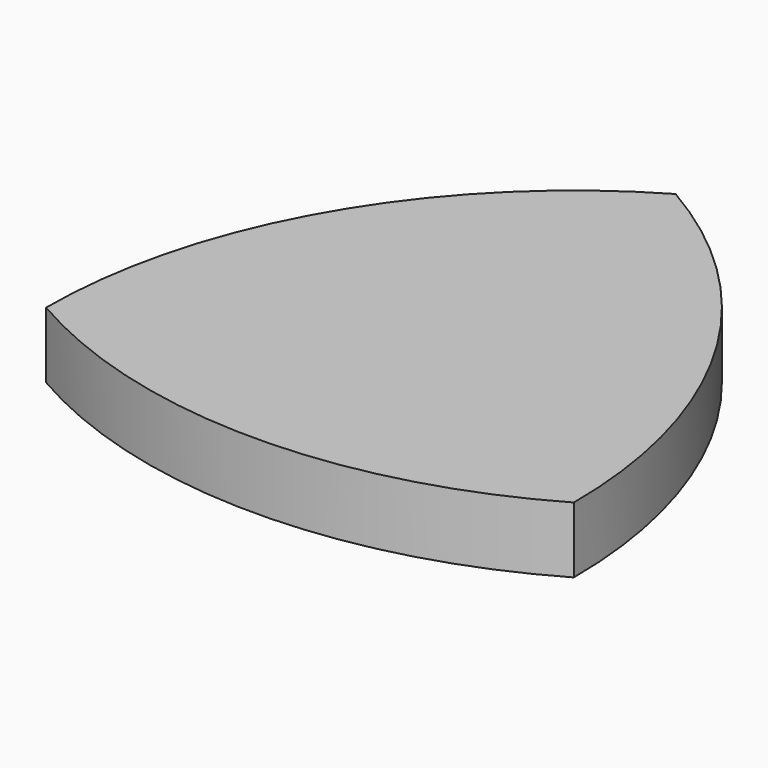
from build123d import *

# Parameters (mm, degrees)
F1_DEPTH = 5


with BuildPart() as f1:
    # F0 (on Top) → F1 (new body)
    with BuildSketch(Plane.XY):
        with BuildLine():
            ThreePointArc((0, 34.6410161514), (-14.6410161514, 20), (-20, 0))
            Line((-20, 0), (0, 34.6410161514))
        make_face()
        Polygon((0, 34.6410161514), (-20, 0), (20, 0), align=None)
        with BuildLine():
            Line((20, 0), (-20, 0))
            ThreePointArc((-20, 0), (0, -5.3589838486), (20, 0))
        make_face()
        with BuildLine():
            ThreePointArc((20, 0), (14.6410161514, 20), (0, 34.6410161514))
            Line((0, 34.6410161514), (20, 0))
        make_face()
    extrude(amount=F1_DEPTH)


solid = f1.part
